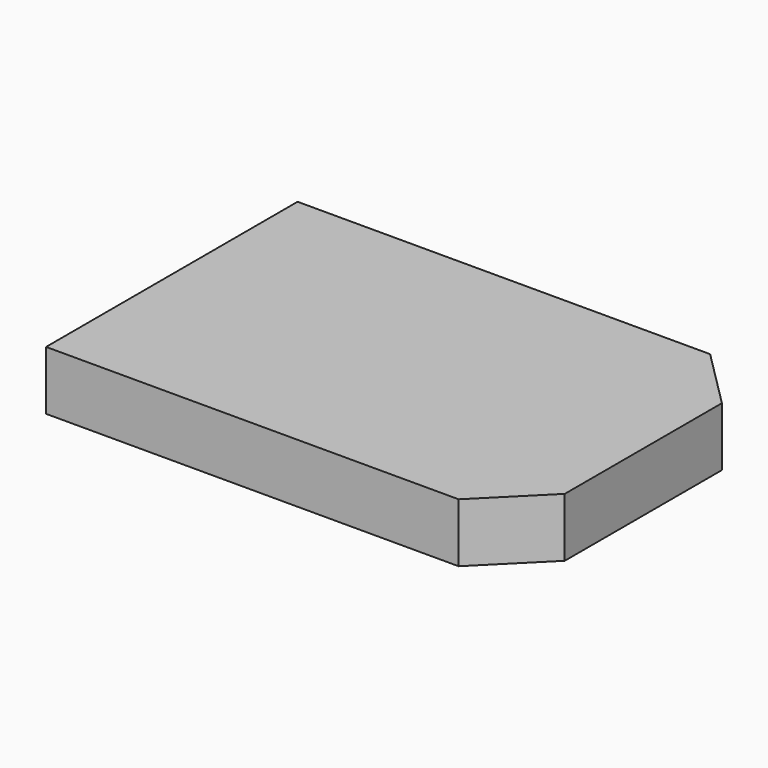
from build123d import *

# Parameters (mm, degrees)
F0_W     = 152.4
F0_H     = 101.6
F1_DEPTH = 19.05
F3_DEPTH = 19.051


with BuildPart() as f1:
    # F0 (on Top) → F1 (new body)
    with BuildSketch(Plane.XY):
        Rectangle(F0_W, F0_H)
    extrude(amount=F1_DEPTH)

    # F2 (on face) → F3 (cut, through all)
    with BuildSketch(Plane.XY.offset(19.05)):
        Polygon((57.15, 50.8), (76.2, 31.75), (76.2, 50.8), align=None)
        Polygon((76.2, -31.75), (57.15, -50.8), (76.2, -50.8), align=None)
    extrude(amount=-F3_DEPTH, mode=Mode.SUBTRACT)


solid = f1.part
